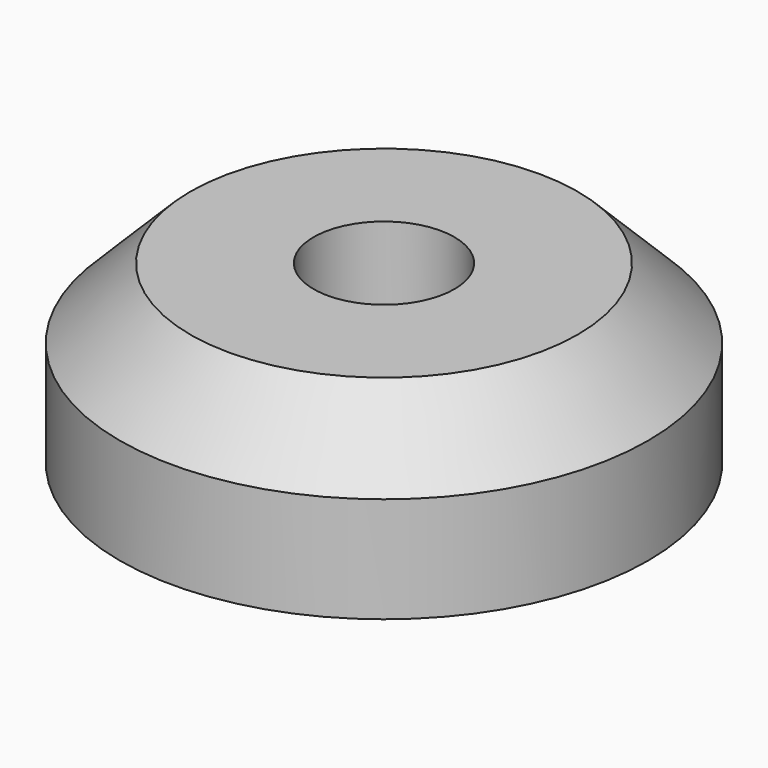
from build123d import *

# Parameters (mm, degrees)
F0_R     = 7.5
F1_DEPTH = 5
F2_R     = 2
F3_DEPTH = 25
F4_SIZE  = 2


with BuildPart() as f1:
    # F0 (on Top) → F1 (new body)
    with BuildSketch(Plane.XY):
        Circle(F0_R)
    extrude(amount=F1_DEPTH)

    # F2 (on face) → F3 (cut)
    with BuildSketch(Plane.XY.offset(5)):
        Circle(F2_R)
    extrude(amount=-F3_DEPTH, mode=Mode.SUBTRACT)

    # F4
    f4_edges = [f1.edges().sort_by_distance(p)[0] for p in [
        (-7.5, 0, 5),
    ]]
    chamfer(f4_edges, length=F4_SIZE)


solid = f1.part
